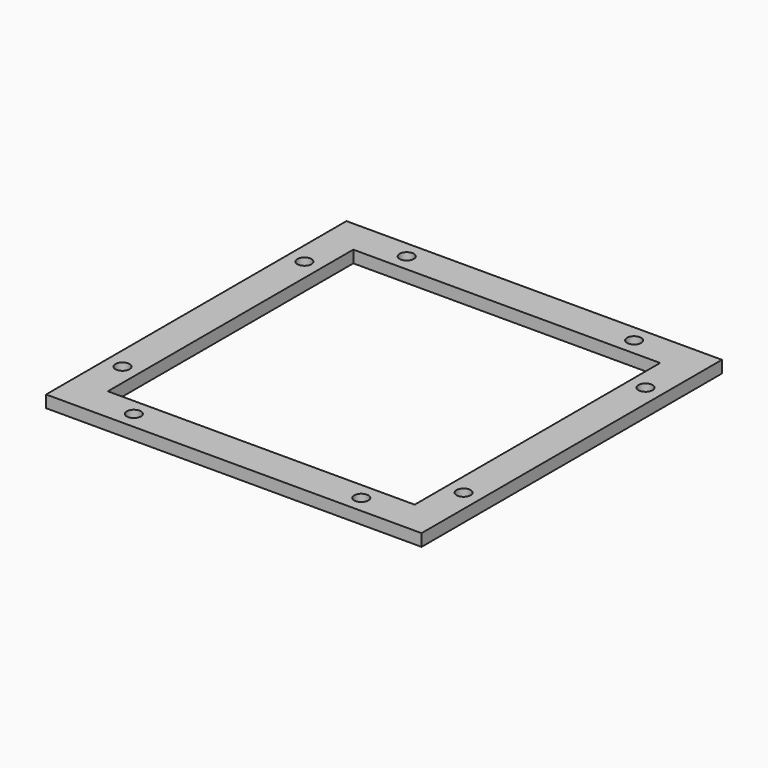
from build123d import *

# Parameters (mm, degrees)
SKETCH_W   = 93
SKETCH_H   = 93
SKETCH_R   = 1.75
SKETCH_W_2 = 76
SKETCH_H_2 = 76
PAD_DEPTH  = 3


with BuildPart() as part:
    # Sketch → Pad (new body)
    with BuildSketch(Plane.XY):
        Rectangle(SKETCH_W, SKETCH_H)
        with Locations((-28.166667, 42.25)):
            Circle(SKETCH_R, mode=Mode.SUBTRACT)
        with Locations((28.166667, 42.25)):
            Circle(SKETCH_R, mode=Mode.SUBTRACT)
        with Locations((42.25, 28.166667)):
            Circle(SKETCH_R, mode=Mode.SUBTRACT)
        with Locations((42.25, -28.166667)):
            Circle(SKETCH_R, mode=Mode.SUBTRACT)
        with Locations((28.166667, -42.25)):
            Circle(SKETCH_R, mode=Mode.SUBTRACT)
        with Locations((-28.166667, -42.25)):
            Circle(SKETCH_R, mode=Mode.SUBTRACT)
        with Locations((-42.25, -28.166667)):
            Circle(SKETCH_R, mode=Mode.SUBTRACT)
        with Locations((-42.25, 28.166667)):
            Circle(SKETCH_R, mode=Mode.SUBTRACT)
        Rectangle(SKETCH_W_2, SKETCH_H_2, mode=Mode.SUBTRACT)
    extrude(amount=PAD_DEPTH)


solid = part.part
